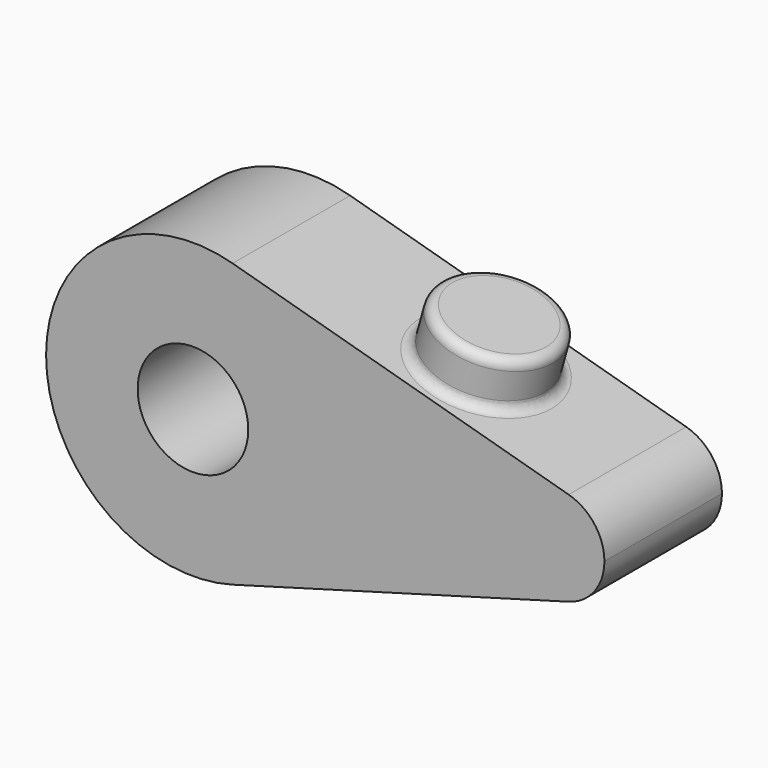
from build123d import *

# Parameters (mm, degrees)
F1_DEPTH = 15
F2_R     = 5.6469971394
F3_DEPTH = 16
F4_R     = 5.9634440704
F5_DEPTH = 5
F6_R     = 1


with BuildPart() as f1:
    # F0 (on Front) → F1 (new body)
    with BuildSketch(Plane.XZ):
        with BuildLine():
            ThreePointArc((4.051797674, -14.4424006179), (11.9535970551, -9.0615405669), (15, 0))
            ThreePointArc((15, 0), (11.9535970551, 9.0615405669), (4.051797674, 14.4424006179))
            ThreePointArc((4.051797674, 14.4424006179), (-15, 0), (4.051797674, -14.4424006179))
        make_face()
        with BuildLine():
            ThreePointArc((4.051797674, 14.4424006179), (11.9535970551, 9.0615405669), (15, 0))
            ThreePointArc((15, 0), (11.9535970551, -9.0615405669), (4.051797674, -14.4424006179))
            Line((4.051797674, -14.4424006179), (38.3712039217, -4.8141335393))
            ThreePointArc((38.3712039217, -4.8141335393), (32.0206046971, 0), (38.3712039217, 4.8141335393))
            Line((38.3712039217, 4.8141335393), (4.051797674, 14.4424006179))
        make_face()
        with BuildLine():
            ThreePointArc((42.0206046971, 0), (41.0051370488, 3.0205135223), (38.3712039217, 4.8141335393))
            ThreePointArc((38.3712039217, 4.8141335393), (32.0206046971, 0), (38.3712039217, -4.8141335393))
            ThreePointArc((38.3712039217, -4.8141335393), (41.0051370488, -3.0205135223), (42.0206046971, 0))
        make_face()
    extrude(amount=F1_DEPTH)

    # F2 (on face) → F3 (cut)
    with BuildSketch(Plane.XZ.offset(15)):
        Circle(F2_R)
    extrude(amount=-F3_DEPTH, mode=Mode.SUBTRACT)

    # F4 (on face) → F5 (join)
    with BuildSketch(Plane(origin=(4.051797674, 0, 14.4424006179), x_dir=(0.9628267079, 0, -0.2701198449), z_dir=(0.2701198449, 0, 0.9628267079))):
        with Locations((20.6467304379, -7.5)):
            Circle(F4_R)
    extrude(amount=F5_DEPTH)

    # F6
    f6_edges = [f1.edges().sort_by_distance(p)[0] for p in [
        (19.539857, -7.5, 15.290287),
        (18.189258, -7.5, 10.476154),
    ]]
    fillet(f6_edges, radius=F6_R)


solid = f1.part
